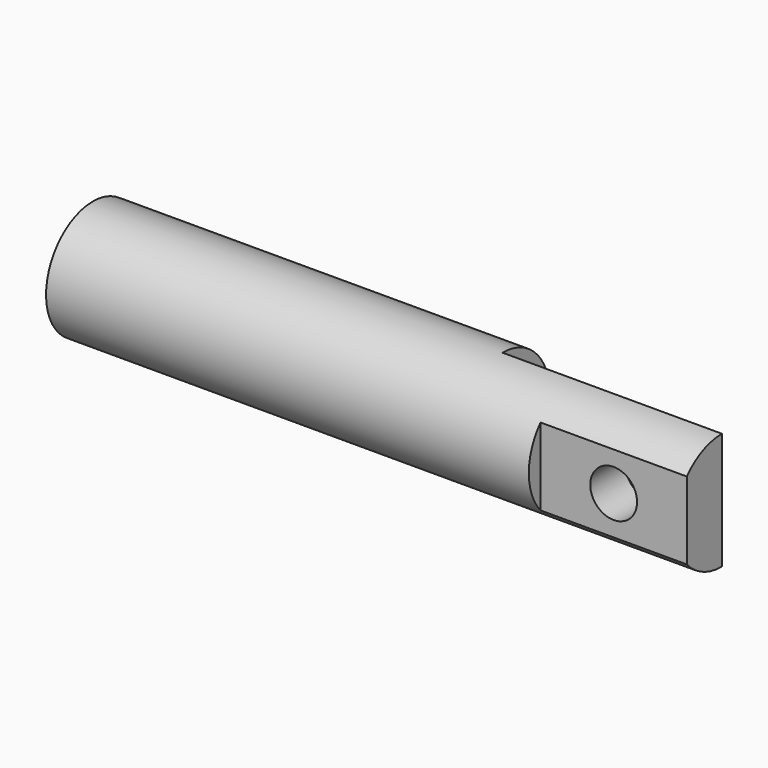
from build123d import *

# Parameters (mm, degrees)
CYLINDER026_R     = 2
CYLINDER026_DEPTH = 5
CYLINDER_R        = 1.6
CYLINDER_DEPTH    = 5
BOX001_W          = 10
BOX001_H          = 10
BOX001_DEPTH      = 10
BOX_W             = 15
BOX_H             = 10
BOX_DEPTH         = 10
CYLINDER025_R     = 4
CYLINDER025_DEPTH = 43


with BuildPart() as cylinder001:
    # Cylinder026 → Cylinder026 (new body)
    with BuildSketch(Plane(origin=(0, 0, 0), x_dir=(0, 0, -1), z_dir=(1, 0, 0))):
        Circle(CYLINDER026_R)
    extrude(amount=CYLINDER026_DEPTH)


with BuildPart() as cylinder:
    # Cylinder → Cylinder (new body)
    with BuildSketch(Plane(origin=(38, -4, 0), x_dir=(1, 0, 0), z_dir=(0, 1, 0))):
        Circle(CYLINDER_R)
    extrude(amount=CYLINDER_DEPTH)


with BuildPart() as cube001:
    # Box001 → Box001 (new body)
    with BuildSketch(Plane(origin=(33, -13, -5), x_dir=(1, 0, 0), z_dir=(0, 0, 1))):
        with Locations((5, 5)):
            Rectangle(BOX001_W, BOX001_H)
    extrude(amount=BOX001_DEPTH)


with BuildPart() as cube:
    # Box → Box (new body)
    with BuildSketch(Plane(origin=(28, 0, -5), x_dir=(1, 0, 0), z_dir=(0, 0, 1))):
        with Locations((7.5, 5)):
            Rectangle(BOX_W, BOX_H)
    extrude(amount=BOX_DEPTH)


with BuildPart() as piston:
    # Cylinder025 → Cylinder025 (new body)
    with BuildSketch(Plane.ZY.offset(-43)):
        Circle(CYLINDER025_R)
    extrude(amount=CYLINDER025_DEPTH)

    # Cut: cut Cube
    add(cube.part, mode=Mode.SUBTRACT)

    # Cut001: cut Cube001
    add(cube001.part, mode=Mode.SUBTRACT)

    # Cut002: cut Cylinder
    add(cylinder.part, mode=Mode.SUBTRACT)

    # Cut003: cut Cylinder001
    add(cylinder001.part, mode=Mode.SUBTRACT)


solid = piston.part
